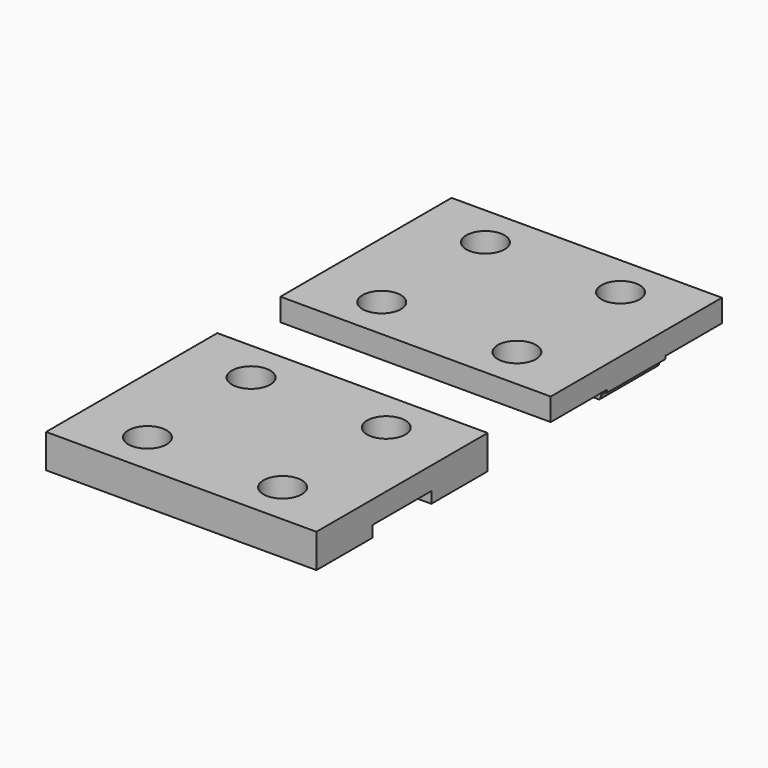
from build123d import *

# Parameters (mm, degrees)
SKETCH_W             = 24
SKETCH_H             = 19
SKETCH_R             = 1.7
PAD_DEPTH            = 3
SKETCH001_W          = 24
SKETCH001_H          = 6.5
POCKET_DEPTH         = 1
SKETCH002_W          = 24
SKETCH002_H          = 19
SKETCH002_R          = 1.7
PAD001_DEPTH         = 3
SKETCH003_W          = 24
SKETCH003_H          = 6.25
POCKET001_DEPTH      = 1
POCKET002_DEPTH      = 9.501
POCKET002_DEPTH_BACK = 9.501
LINEARPATTERN_COUNT  = 12
LINEARPATTERN_PITCH  = 2.181818


with BuildPart() as base:
    # Sketch → Pad (new body)
    with BuildSketch(Plane.XY):
        Rectangle(SKETCH_W, SKETCH_H)
        with Locations((-6, 5.75)):
            Circle(SKETCH_R, mode=Mode.SUBTRACT)
        with Locations((6, 5.75)):
            Circle(SKETCH_R, mode=Mode.SUBTRACT)
        with Locations((-6, -5.75)):
            Circle(SKETCH_R, mode=Mode.SUBTRACT)
        with Locations((6, -5.75)):
            Circle(SKETCH_R, mode=Mode.SUBTRACT)
    extrude(amount=PAD_DEPTH)

    # Sketch001 → Pocket (cut)
    with BuildSketch(Plane.XY):
        Rectangle(SKETCH001_W, SKETCH001_H)
    extrude(amount=POCKET_DEPTH, mode=Mode.SUBTRACT)


with BuildPart() as base_1:
    # Body placement: moved
    add(base.part.moved(Location((0, -26, 0))))


with BuildPart() as tapa:
    # Sketch002 → Pad001 (new body)
    with BuildSketch(Plane.XY):
        Rectangle(SKETCH002_W, SKETCH002_H)
        with Locations((-6, 5.75)):
            Circle(SKETCH002_R, mode=Mode.SUBTRACT)
        with Locations((6, 5.75)):
            Circle(SKETCH002_R, mode=Mode.SUBTRACT)
        with Locations((-6, -5.75)):
            Circle(SKETCH002_R, mode=Mode.SUBTRACT)
        with Locations((6, -5.75)):
            Circle(SKETCH002_R, mode=Mode.SUBTRACT)
    extrude(amount=PAD001_DEPTH)

    # Sketch003 → Pocket001 (cut)
    with BuildSketch(Plane.XY):
        with Locations((0, 6.375)):
            Rectangle(SKETCH003_W, SKETCH003_H)
        with Locations((0, -6.375)):
            Rectangle(SKETCH003_W, SKETCH003_H)
    extrude(amount=POCKET001_DEPTH, mode=Mode.SUBTRACT)

    # Sketch004 → Pocket002 (cut, two sides)
    with BuildSketch(Plane.XZ) as pocket002_sk:
        with BuildLine():
            ThreePointArc((-11.501124, 0.438202), (-12, 0.75), (-12.498876, 0.438202))
            ThreePointArc((-12.498876, 0.438202), (-12.557612, 0.288062), (-12.591457, 0.130435))
            ThreePointArc((-12.740175, 0), (-12.641268, 0.037229), (-12.591457, 0.130435))
            Line((-12.740175, 0), (-13, 0))
            Line((-13, 0), (-13, -0.63))
            Line((-13, -0.63), (-11, -0.63))
            Line((-11, -0.63), (-11, 0))
            Line((-11.259825, 0), (-11, 0))
            ThreePointArc((-11.408543, 0.130435), (-11.358732, 0.037229), (-11.259825, 0))
            ThreePointArc((-11.408543, 0.130435), (-11.442388, 0.288062), (-11.501124, 0.438202))
        make_face()
    pocket002 = extrude(amount=-POCKET002_DEPTH, mode=Mode.SUBTRACT) + extrude(pocket002_sk.sketch, amount=POCKET002_DEPTH_BACK, mode=Mode.SUBTRACT)

    # LinearPattern: Pocket002 ×12
    with Locations(*[(i * LINEARPATTERN_PITCH, 0, 0) for i in range(1, LINEARPATTERN_COUNT)]):
        add(pocket002, mode=Mode.SUBTRACT)


solid = Compound([base_1.part, tapa.part])
